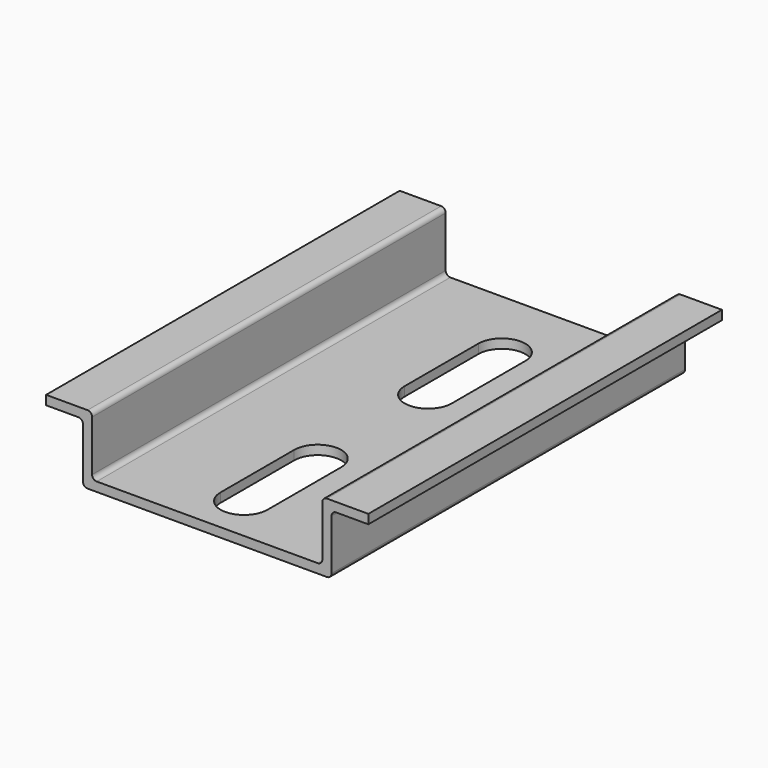
from build123d import *

# Parameters (mm, degrees)
PAD002_DEPTH    = 48
POCKET003_DEPTH = 5


with BuildPart() as pad002:
    # Sketch001 → Pad002 (new body)
    with BuildSketch(Plane.XZ):
        with BuildLine():
            Line((-17.5, 6.5), (-14, 6.5))
            ThreePointArc((-13.5, 6), (-13.646447, 6.353553), (-14, 6.5))
            Line((-13.5, 6), (-13.5, 0.5))
            ThreePointArc((-13.5, 0.5), (-13.353553, 0.146447), (-13, 0))
            Line((-13, 0), (13, 0))
            ThreePointArc((13, 0), (13.353553, 0.146447), (13.5, 0.5))
            Line((13.5, 0.5), (13.5, 6))
            ThreePointArc((14, 6.5), (13.646447, 6.353553), (13.5, 6))
            Line((14, 6.5), (17.5, 6.5))
            Line((17.5, 6.5), (17.5, 7.5))
            Line((17.5, 7.5), (13, 7.5))
            ThreePointArc((13, 7.5), (12.646447, 7.353553), (12.5, 7))
            Line((12.5, 7), (12.5, 1.5))
            ThreePointArc((12, 1), (12.353553, 1.146447), (12.5, 1.5))
            Line((12, 1), (-12, 1))
            ThreePointArc((-12.5, 1.5), (-12.353553, 1.146447), (-12, 1))
            Line((-12.5, 1.5), (-12.5, 7))
            ThreePointArc((-12.5, 7), (-12.646447, 7.353553), (-13, 7.5))
            Line((-13, 7.5), (-17.5, 7.5))
            Line((-17.5, 7.5), (-17.5, 6.5))
        make_face()
    extrude(amount=PAD002_DEPTH)


with BuildPart() as common:
    # Pocket003 base: copy of Pad002
    add(pad002.part)

    # Sketch002 (on Face19 of Pad002) → Pocket003 (cut)
    with BuildSketch(Plane(origin=(0, 0, 1), x_dir=(-1, 0, 0), z_dir=(0, 0, 1))):
        with BuildLine():
            ThreePointArc((-2.55, 33), (0, 30.45), (2.55, 33))
            Line((2.55, 33), (2.55, 43))
            ThreePointArc((2.55, 43), (0, 45.55), (-2.55, 43))
            Line((-2.55, 33), (-2.55, 43))
        make_face()
        with BuildLine():
            ThreePointArc((-2.55, 8), (0, 5.45), (2.55, 8))
            Line((2.55, 8), (2.55, 18))
            ThreePointArc((2.55, 18), (0, 20.55), (-2.55, 18))
            Line((-2.55, 8), (-2.55, 18))
        make_face()
    extrude(amount=-POCKET003_DEPTH, mode=Mode.SUBTRACT)

    # Common: intersect Pad002
    add(pad002.part, mode=Mode.INTERSECT)


solid = common.part
